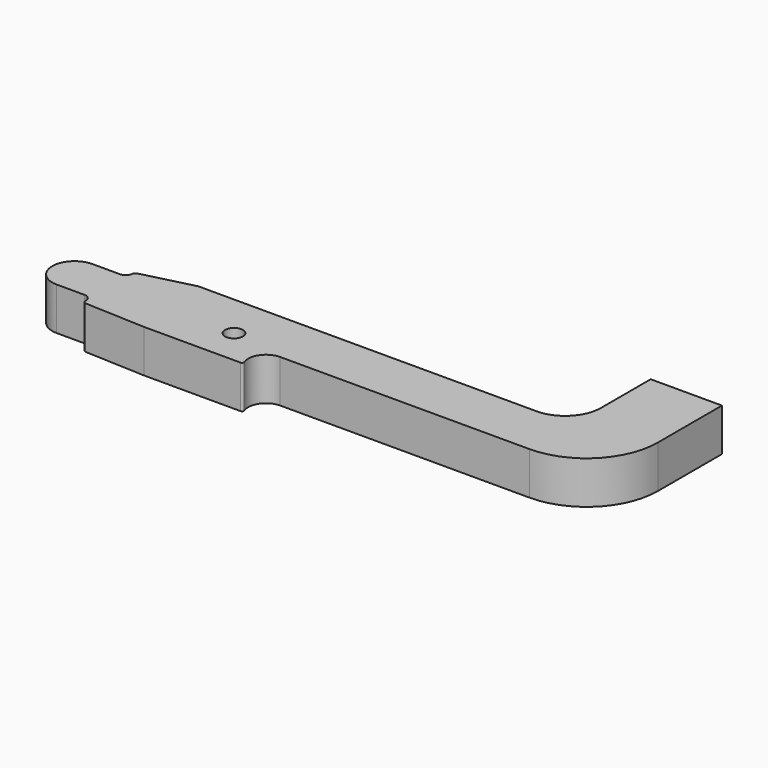
from build123d import *

# Parameters (mm, degrees)
F0_R     = 1
F1_DEPTH = 4.8


with BuildPart() as f1:
    # F0 (on Top) → F1 (new body)
    with BuildSketch(Plane.XY):
        with BuildLine():
            ThreePointArc((51.9, 4), (57.556854, 6.343146), (59.9, 12))
            Line((59.9, 12), (59.9, 21))
            Line((59.9, 21), (51.9, 21))
            Line((51.9, 21), (51.9, 14))
            ThreePointArc((51.9, 14), (50.728427, 11.171573), (47.9, 10))
            Line((47.9, 10), (9.9, 10))
            Line((9.9, 10), (4.202064, 8.561127))
            ThreePointArc((4.202064, 8.561127), (3.984426, 8.419092), (3.9, 8.173302))
            Line((3.9, 8.173302), (3.9, 8.3))
            ThreePointArc((3.9, 8.3), (3.665685, 7.734315), (3.1, 7.5))
            Line((3.1, 7.5), (0, 7.5))
            ThreePointArc((0, 7.5), (-2.5, 5), (0, 2.5))
            Line((0, 2.5), (3.1, 2.5))
            ThreePointArc((3.1, 2.5), (3.665685, 2.265685), (3.9, 1.7))
            Line((3.9, 1.7), (3.9, 1.682928))
            ThreePointArc((3.9, 1.682928), (3.987383, 1.433388), (4.211352, 1.292875))
            Line((4.211352, 1.292875), (11, 1))
            Line((11, 1), (21.85061, 1))
            ThreePointArc((21.85061, 1), (22.015754, 1.087185), (22.036918, 1.272727))
            ThreePointArc((22.036918, 1.272727), (22.248554, 3.128152), (23.9, 4))
            Line((23.9, 4), (51.9, 4))
        make_face()
        with Locations((17.9, 5)):
            Circle(F0_R, mode=Mode.SUBTRACT)
    extrude(amount=F1_DEPTH)


solid = f1.part
